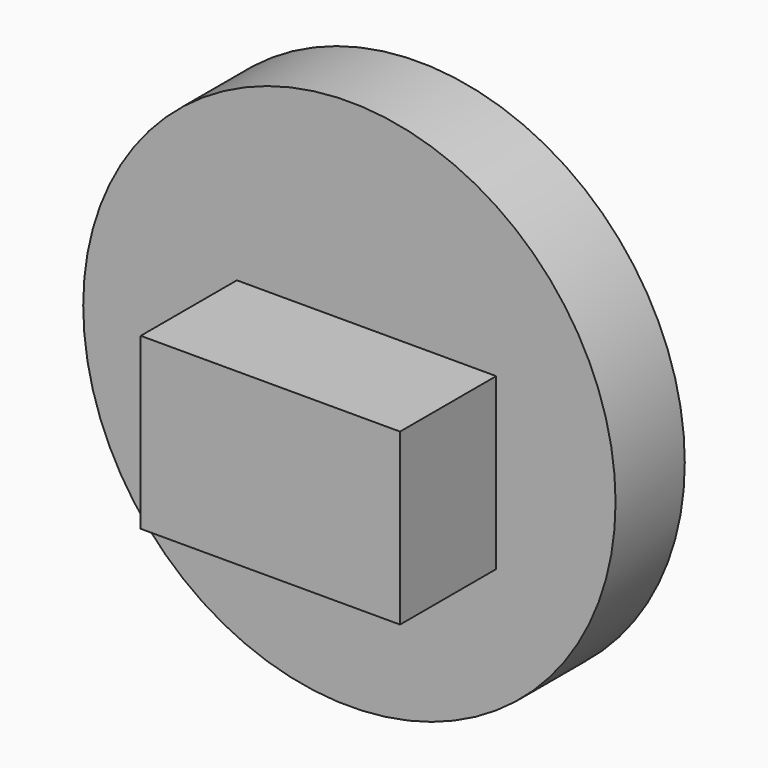
from build123d import *

# Parameters (mm, degrees)
F0_R     = 55.371767
F1_DEPTH = 18
F2_W     = 53.946854
F2_H     = 35.34449
F3_DEPTH = 25


with BuildPart() as f1:
    # F0 (on Front) → F1 (new body)
    with BuildSketch(Plane.XZ):
        Circle(F0_R)
    extrude(amount=F1_DEPTH)

    # F2 (on face) → F3 (join)
    with BuildSketch(Plane.XZ.offset(18)):
        with Locations((3.565454, -2.635335)):
            Rectangle(F2_W, F2_H)
    extrude(amount=F3_DEPTH)


solid = f1.part
